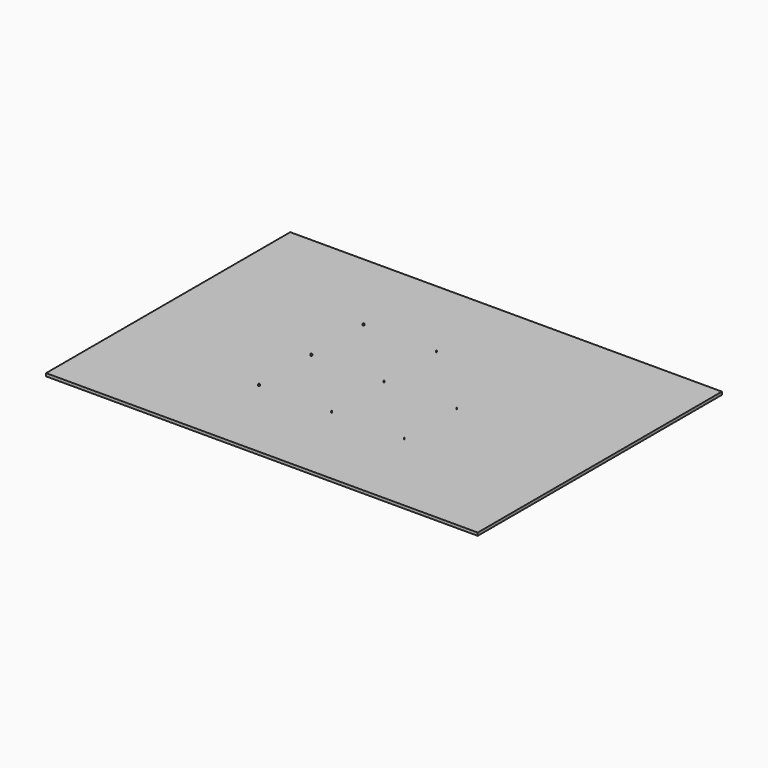
from build123d import *

# Parameters (mm, degrees)
F0_W     = 297
F0_H     = 210
F1_DEPTH = 2
F2_R     = 0.1
F3_DEPTH = 1
F4_R     = 0.25
F5_DEPTH = 1
F6_R     = 0.5
F7_DEPTH = 1


with BuildPart() as f1:
    # F0 (on Top) → F1 (new body)
    with BuildSketch(Plane.XY):
        Rectangle(F0_W, F0_H)
    extrude(amount=F1_DEPTH)

    # F2 (on face) → F3 (join)
    with BuildSketch(Plane.XY.offset(2)):
        with Locations((50, 45)):
            Circle(F2_R)
        with Locations((50, 0)):
            Circle(F2_R)
        with Locations((50, -45)):
            Circle(F2_R)
    extrude(amount=F3_DEPTH)

    # F4 (on face) → F5 (join)
    with BuildSketch(Plane.XY.offset(2)):
        with Locations((0, 45)):
            Circle(F4_R)
        Circle(F4_R)
        with Locations((0, -45)):
            Circle(F4_R)
    extrude(amount=F5_DEPTH)

    # F6 (on face) → F7 (join)
    with BuildSketch(Plane.XY.offset(2)):
        with Locations((-50, 45)):
            Circle(F6_R)
        with Locations((-50, 0)):
            Circle(F6_R)
        with Locations((-50, -45)):
            Circle(F6_R)
    extrude(amount=F7_DEPTH)


solid = f1.part
